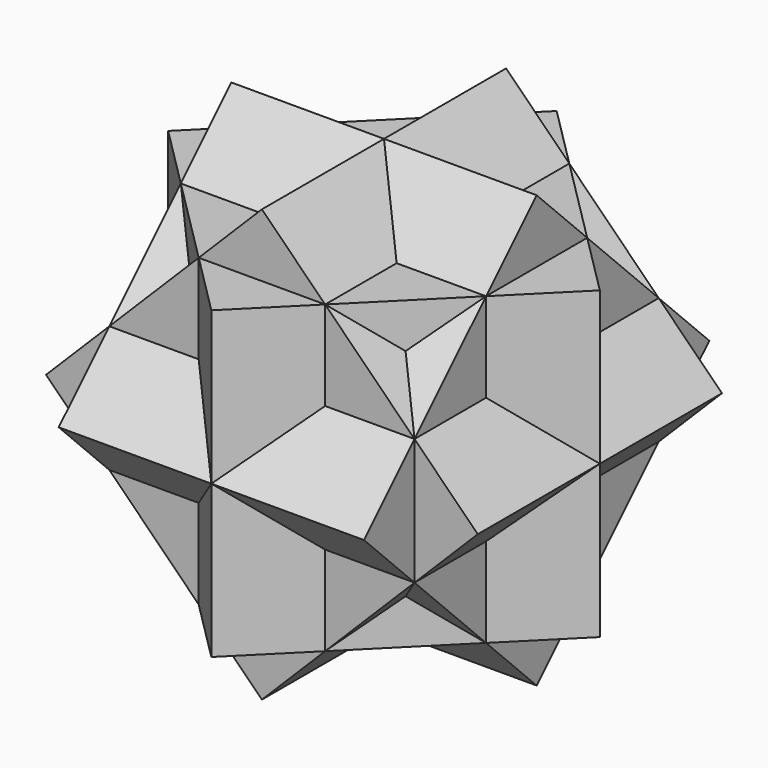
from build123d import *

# Parameters (mm, degrees)
F1_DEPTH = 25
F3_DEPTH = 25
F5_DEPTH = 25


with BuildPart() as f1:
    # F0 (on Front) → F1 (new body, symmetric)
    with BuildSketch(Plane.XZ):
        Polygon((35.355339, 0), (0, 35.355339), (-35.355339, 0), (0, -35.355339), align=None)
    extrude(amount=F1_DEPTH, both=True)

    # F2 (on Right) → F3 (join, symmetric)
    with BuildSketch(Plane.YZ):
        Polygon((35.355339, 0), (0, 35.355339), (-35.355339, 0), (0, -35.355339), align=None)
    extrude(amount=F3_DEPTH, both=True)

    # F4 (on Top) → F5 (join, symmetric)
    with BuildSketch(Plane.XY):
        Polygon((-35.355339, 0), (0, -35.355339), (35.355339, 0), (0, 35.355339), align=None)
    extrude(amount=F5_DEPTH, both=True)


solid = f1.part
